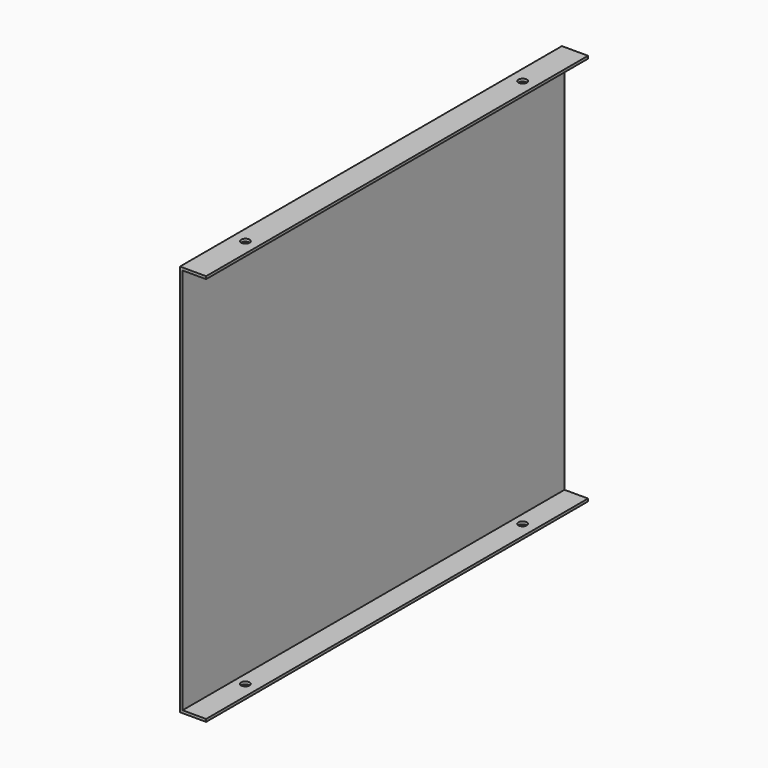
from build123d import *

# Parameters (mm, degrees)
F1_DEPTH = 182.5
F2_R     = 3.25
F3_DEPTH = 300.001


with BuildPart() as f1:
    # F0 (on Front) → F1 (new body, symmetric)
    with BuildSketch(Plane.XZ):
        Polygon((20, 148), (20, 150), (0, 150), (0, 0), (0, -150), (20, -150), (20, -148), (2, -148), (2, 0), (2, 148), align=None)
    extrude(amount=F1_DEPTH, both=True)

    # F2 (on face) → F3 (cut, through all)
    with BuildSketch(Plane(origin=(0, 0, -150), x_dir=(1, 0, 0), z_dir=(0, 0, -1))):
        with Locations((10, 132.5)):
            Circle(F2_R)
        with Locations((10, -132.5)):
            Circle(F2_R)
    extrude(amount=-F3_DEPTH, mode=Mode.SUBTRACT)


solid = f1.part
